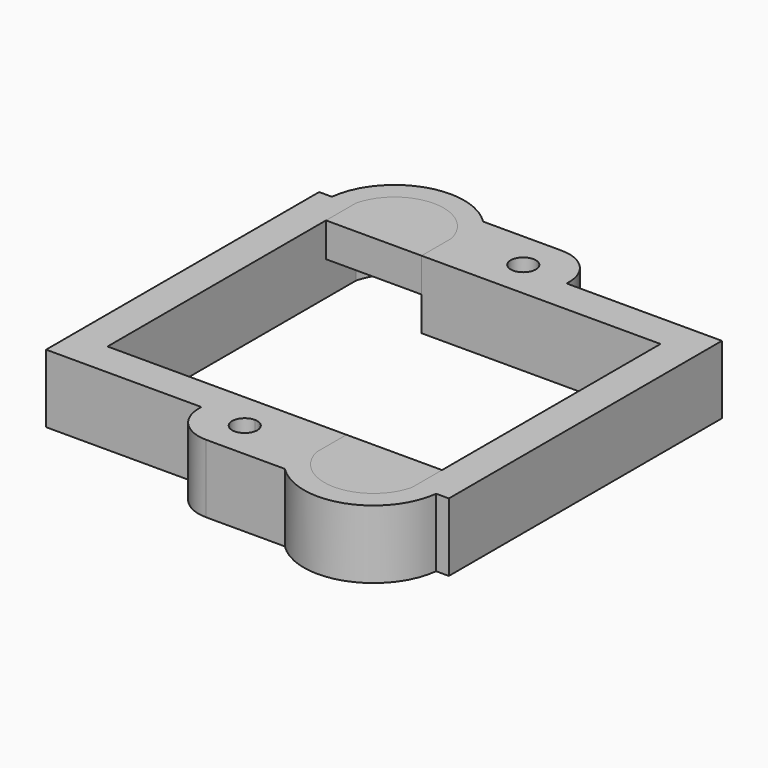
from build123d import *

# Parameters (mm, degrees)
F0_DEPTH = 10
F2_DEPTH = 5


with BuildPart() as f0:
    # F1 (on Top) → F0 (new body)
    with BuildSketch(Plane.XY):
        with BuildLine():
            Line((29.5, 25), (6.75, 25))
            Line((6.75, 25), (6.75, 25.5))
            ThreePointArc((6.75, 25.5), (5.139087, 29.389087), (1.25, 31))
            Line((1.25, 31), (-10.273156, 31))
            ThreePointArc((-10.273156, 31), (-20.833426, 33.440195), (-27.633204, 25))
            Line((-27.633204, 25), (-29.5, 25))
            Line((-29.5, 25), (-29.5, -25))
            Line((-29.5, -25), (-6.75, -25))
            Line((-6.75, -25), (-6.75, -25.5))
            ThreePointArc((-6.75, -25.5), (-5.139087, -29.389087), (-1.25, -31))
            Line((-1.25, -31), (0, -31))
            Line((0, -31), (10.273156, -31))
            ThreePointArc((10.273156, -31), (20.833426, -33.440195), (27.633204, -25))
            Line((27.633204, -25), (29.5, -25))
            Line((29.5, -25), (29.5, 25))
        make_face()
        with BuildLine():
            ThreePointArc((1.8375, -25.5), (-1.299309, -26.799309), (0, -23.6625))
            ThreePointArc((0, -23.6625), (1.299309, -24.200691), (1.8375, -25.5))
        make_face(mode=Mode.SUBTRACT)
        with BuildLine():
            Line((-10.5, 25.5), (-10.5, 20))
            Line((-10.5, 20), (0, 20))
            Line((0, 20), (24.5, 20))
            Line((24.5, 20), (24.5, -20))
            Line((24.5, -20), (24.5, -25.5))
            ThreePointArc((24.5, -25.5), (17.5, -31), (10.5, -25.5))
            Line((10.5, -25.5), (10.5, -20))
            Line((10.5, -20), (0, -20))
            Line((0, -20), (-6.75, -20))
            Line((-6.75, -20), (-24.5, -20))
            Line((-24.5, -20), (-24.5, 20))
            Line((-24.5, 20), (-24.5, 25.5))
            ThreePointArc((-24.5, 25.5), (-17.5, 31), (-10.5, 25.5))
        make_face(mode=Mode.SUBTRACT)
        with BuildLine():
            ThreePointArc((1.8375, 25.5), (1.299309, 24.200691), (0, 23.6625))
            ThreePointArc((0, 23.6625), (-1.299309, 26.799309), (1.8375, 25.5))
        make_face(mode=Mode.SUBTRACT)
    extrude(amount=-F0_DEPTH)


with BuildPart() as f2:
    # F1 (on Top) → F2 (new body)
    with BuildSketch(Plane.XY):
        with BuildLine():
            Line((-24.5, 20), (-10.5, 20))
            Line((-10.5, 20), (-10.5, 25.5))
            ThreePointArc((-10.5, 25.5), (-17.5, 31), (-24.5, 25.5))
            Line((-24.5, 25.5), (-24.5, 20))
        make_face()
        with BuildLine():
            Line((24.5, -25.5), (24.5, -20))
            Line((24.5, -20), (10.5, -20))
            Line((10.5, -20), (10.5, -25.5))
            ThreePointArc((10.5, -25.5), (17.5, -31), (24.5, -25.5))
        make_face()
    extrude(amount=-F2_DEPTH)


solid = Compound([f0.part, f2.part])
